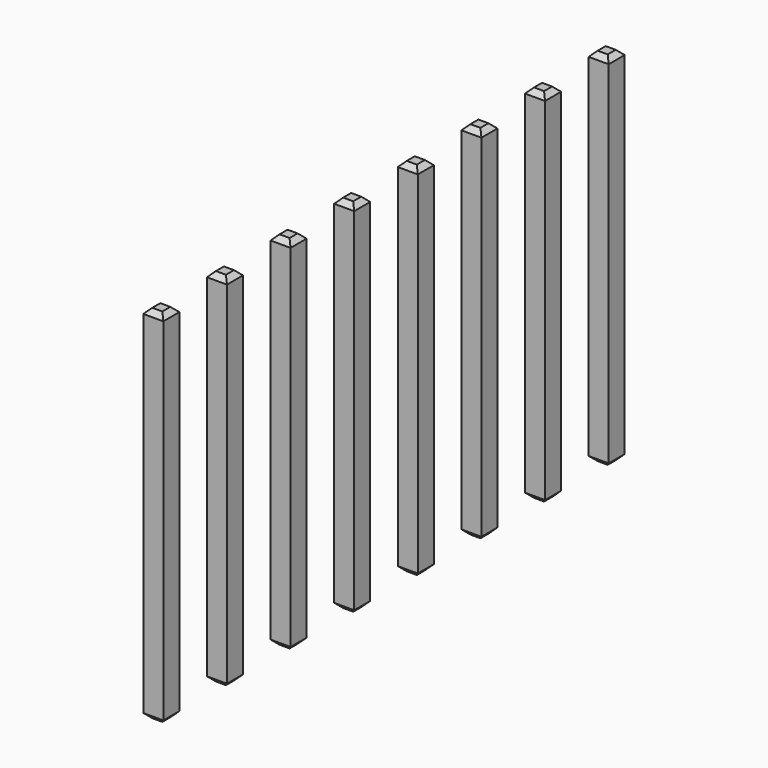
from build123d import *

# Parameters (mm, degrees)
SKETCH207_W       = 0.64
SKETCH207_H       = 11.54
PAD062_DEPTH      = 0.32
PAD062_DEPTH_BACK = 0.32
CHAMFER012_SIZE   = 0.16
ARRAY001_Y_COUNT  = 8
ARRAY001_Y_PITCH  = 2.54


with BuildPart() as part:
    # Sketch207 → Pad062 (new body, two sides)
    with BuildSketch(Plane.XZ) as pad062_sk:
        with Locations((0, 2.77)):
            Rectangle(SKETCH207_W, SKETCH207_H)
    extrude(amount=PAD062_DEPTH)
    extrude(pad062_sk.sketch, amount=-PAD062_DEPTH_BACK)

    # Chamfer012
    chamfer012_edges = [part.edges().sort_by_distance(p)[0] for p in [
        (0.32, 0, 8.54),
        (-0.32, 0, 8.54),
        (0, 0.32, 8.54),
        (0, -0.32, 8.54),
        (-0.32, 0, -3),
        (0.32, 0, -3),
        (0, 0.32, -3),
        (0, -0.32, -3),
    ]]
    chamfer(chamfer012_edges, length=CHAMFER012_SIZE)


with BuildPart() as part_1:
    # Body034 placement: moved
    add(part.part.moved(Location((1.5, 0, 0))))

    # Array001 Y: part ×8


with BuildPart() as part_2:
    add(part_1.part)
    with Locations(*[(0, i * ARRAY001_Y_PITCH, 0) for i in range(1, ARRAY001_Y_COUNT)]):
        add(part_1.part)


solid = part_2.part
